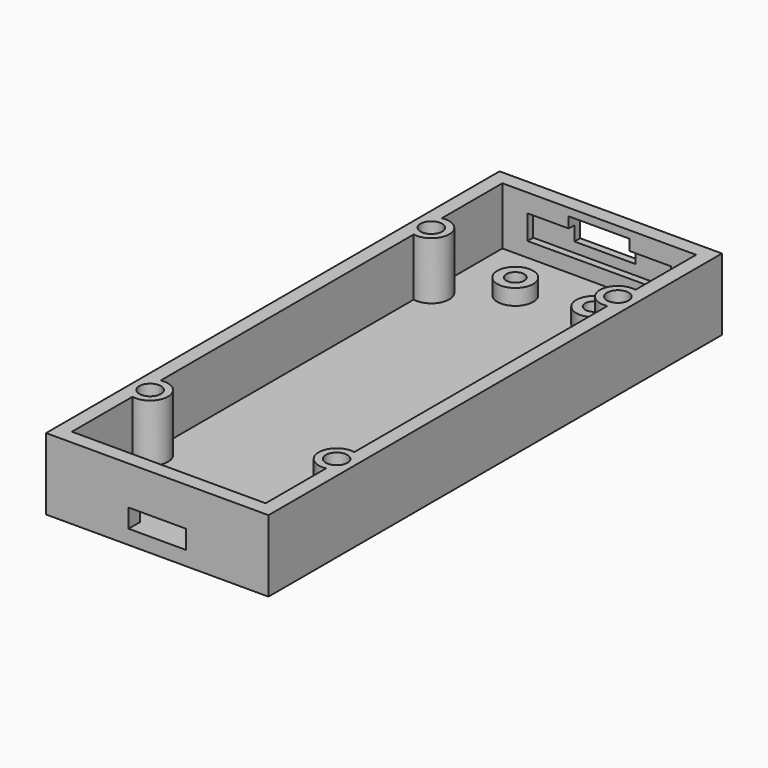
from build123d import *

# Parameters (mm, degrees)
SKETCH_W             = 27
SKETCH_H             = 75
PAD_DEPTH            = 8
PAD001_DEPTH         = 2
SKETCH004_R          = 2.5
PAD002_DEPTH         = 2.2
SKETCH005_R          = 1.25
POCKET_DEPTH         = 4.201
SKETCH006_R          = 1.8
POCKET001_DEPTH      = 1.5
POCKET002_DEPTH      = 3.5
SKETCH008_R          = 2.5
PAD003_DEPTH         = 10
SKETCH009_R          = 1.5
POCKET003_DEPTH      = 13
POCKET004_DEPTH      = 1.4
POCKET004_DEPTH_BACK = 2
POCKET005_DEPTH      = 2


with BuildPart() as part:
    # Sketch → Pad (new body)
    with BuildSketch(Plane.XY):
        Polygon((0, 0), (15.5, 0), (15.5, 39.5), (15.5, 79), (0, 79), (-15.5, 79), (-15.5, 39.5), (-15.5, 0), align=None)
        with Locations((0, 39.5)):
            Rectangle(SKETCH_W, SKETCH_H, mode=Mode.SUBTRACT)
    extrude(amount=PAD_DEPTH)

    # Sketch001 → Pad001 (join)
    with BuildSketch(Plane.XY):
        Polygon((-15.5, 79), (-15.5, 39.5), (-15.5, 0), (0, 0), (15.5, 0), (15.5, 39.5), (15.5, 79), (0, 79), align=None)
    extrude(amount=-PAD001_DEPTH)

    # Sketch004 → Pad002 (join)
    with BuildSketch(Plane.XY):
        with Locations((-5.5, 69.25)):
            Circle(SKETCH004_R)
        with Locations((5.5, 69.25)):
            Circle(SKETCH004_R)
    extrude(amount=PAD002_DEPTH)

    # Sketch005 (on DatumPlane) → Pocket (cut, through all)
    with BuildSketch(Plane(origin=(-3, 69.25, 2.2), x_dir=(-1, 0, 0), z_dir=(0, 0, 1))):
        with Locations((2.5, 0)):
            Circle(SKETCH005_R)
        with Locations((-8.5, 0)):
            Circle(SKETCH005_R)
    extrude(amount=-POCKET_DEPTH, mode=Mode.SUBTRACT)

    # Sketch006 (on DatumPlane) → Pocket001 (cut)
    with BuildSketch(Plane(origin=(0, 79, -2), x_dir=(1, 0, 0), z_dir=(0, 0, -1))):
        with Locations((-5.5, 9.75)):
            Circle(SKETCH006_R)
        with Locations((5.5, 9.75)):
            Circle(SKETCH006_R)
    extrude(amount=-POCKET001_DEPTH, mode=Mode.SUBTRACT)

    # Sketch007 (on DatumPlane) → Pocket002 (cut)
    with BuildSketch(Plane(origin=(0, 69.25, 3.45), x_dir=(0, 1, 0), z_dir=(0, 0, 1))):
        Polygon((9.75, 0), (9.75, 4.25), (7.75, 4.25), (7.75, -4.25), (9.75, -4.25), align=None)
    extrude(amount=POCKET002_DEPTH, mode=Mode.SUBTRACT)

    # Sketch008 (on DatumPlane) → Pad003 (join)
    with BuildSketch(Plane(origin=(0, 79, 8), x_dir=(-1, 0, 0), z_dir=(0, 0, 1))):
        with Locations((-13, 15)):
            Circle(SKETCH008_R)
        with Locations((13, 15)):
            Circle(SKETCH008_R)
        with Locations((-13, 64)):
            Circle(SKETCH008_R)
        with Locations((13, 64)):
            Circle(SKETCH008_R)
    extrude(amount=-PAD003_DEPTH)

    # Sketch009 (on DatumPlane) → Pocket003 (cut)
    with BuildSketch(Plane(origin=(0, 79, 8), x_dir=(-1, 0, 0), z_dir=(0, 0, 1))):
        with Locations((-13, 15)):
            Circle(SKETCH009_R)
        with Locations((13, 15)):
            Circle(SKETCH009_R)
        with Locations((-13, 64)):
            Circle(SKETCH009_R)
        with Locations((13, 64)):
            Circle(SKETCH009_R)
    extrude(amount=-POCKET003_DEPTH, mode=Mode.SUBTRACT)

    # Sketch010 (on DatumPlane) → Pocket004 (cut, two sides)
    with BuildSketch(Plane(origin=(0, 69.25, 3.45), x_dir=(0, 1, 0), z_dir=(0, 0, 1))) as pocket004_sk:
        Polygon((7.75, 0), (7.75, 10), (8.75, 10), (8.75, -10), (7.75, -10), align=None)
    extrude(amount=-POCKET004_DEPTH, mode=Mode.SUBTRACT)
    extrude(pocket004_sk.sketch, amount=POCKET004_DEPTH_BACK, mode=Mode.SUBTRACT)

    # Sketch011 (on DatumPlane) → Pocket005 (cut)
    with BuildSketch(Plane.XZ):
        Polygon((0, 0), (4, 0), (4, 2.6), (-4, 2.6), (-4, 0), align=None)
    extrude(amount=-POCKET005_DEPTH, mode=Mode.SUBTRACT)


solid = part.part
